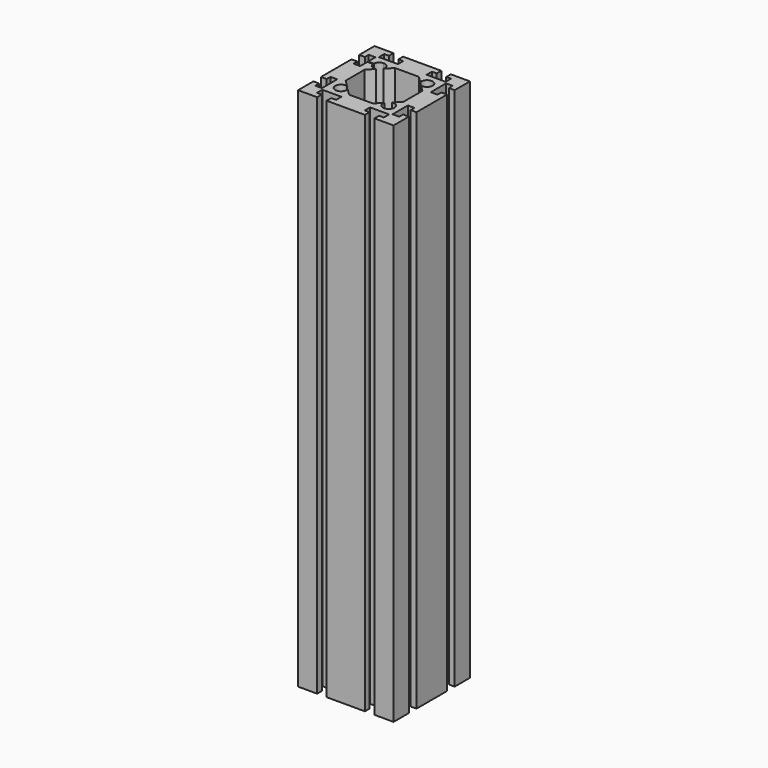
from build123d import *

# Parameters (mm, degrees)
F1_DEPTH = 550


with BuildPart() as f1:
    # F0 (on Top) → F1 (new body)
    with BuildSketch(Plane.XY):
        with BuildLine():
            Line((-30, 50), (-50, 50))
            Line((-50, 50), (-50, 30))
            Line((-50, 30), (-44, 30))
            Line((-44, 30), (-44, 35))
            Line((-44, 35), (-37, 35))
            Line((-37, 35), (-37, 25.5))
            Line((-37, 25.5), (-30.97913, 25.5))
            ThreePointArc((-30.97913, 25.5), (-29.242641, 29.242641), (-25.5, 30.97913))
            ThreePointArc((-25.5, 30.97913), (-20.408156, 28.861991), (-19.195037, 23.482633))
            Line((-19.195037, 23.482633), (-12.5, 30.17767))
            Line((-12.5, 30.17767), (12.5, 30.17767))
            Line((12.5, 30.17767), (19.195037, 23.482633))
            ThreePointArc((19.195037, 23.482633), (29.242641, 29.242641), (23.482633, 19.195037))
            Line((23.482633, 19.195037), (30.17767, 12.5))
            Line((30.17767, 12.5), (30.17767, -12.5))
            Line((30.17767, -12.5), (23.482633, -19.195037))
            ThreePointArc((23.482633, -19.195037), (29.242641, -29.242641), (19.195037, -23.482633))
            Line((19.195037, -23.482633), (12.5, -30.17767))
            Line((12.5, -30.17767), (-12.5, -30.17767))
            Line((-12.5, -30.17767), (-19.195037, -23.482633))
            ThreePointArc((-19.195037, -23.482633), (-29.242641, -29.242641), (-23.482633, -19.195037))
            Line((-23.482633, -19.195037), (-30.17767, -12.5))
            Line((-30.17767, -12.5), (-30.17767, 12.5))
            Line((-30.17767, 12.5), (-23.482633, 19.195037))
            ThreePointArc((-23.482633, 19.195037), (-28.465904, 20.102295), (-30.97913, 24.5))
            Line((-30.97913, 24.5), (-37, 24.5))
            Line((-37, 24.5), (-37, 15))
            Line((-37, 15), (-44, 15))
            Line((-44, 15), (-44, 20))
            Line((-44, 20), (-50, 20))
            Line((-50, 20), (-50, -20))
            Line((-50, -20), (-44, -20))
            Line((-44, -20), (-44, -15))
            Line((-44, -15), (-37, -15))
            Line((-37, -15), (-37, -35))
            Line((-37, -35), (-44, -35))
            Line((-44, -35), (-44, -30))
            Line((-44, -30), (-50, -30))
            Line((-50, -30), (-50, -50))
            Line((-50, -50), (-30, -50))
            Line((-30, -50), (-30, -44))
            Line((-30, -44), (-35, -44))
            Line((-35, -44), (-35, -37))
            Line((-35, -37), (-15, -37))
            Line((-15, -37), (-15, -44))
            Line((-15, -44), (-20, -44))
            Line((-20, -44), (-20, -50))
            Line((-20, -50), (20, -50))
            Line((20, -50), (20, -44))
            Line((20, -44), (15, -44))
            Line((15, -44), (15, -37))
            Line((15, -37), (35, -37))
            Line((35, -37), (35, -44))
            Line((35, -44), (30, -44))
            Line((30, -44), (30, -50))
            Line((30, -50), (50, -50))
            Line((50, -50), (50, -30))
            Line((50, -30), (44, -30))
            Line((44, -30), (44, -35))
            Line((44, -35), (37, -35))
            Line((37, -35), (37, -15))
            Line((37, -15), (44, -15))
            Line((44, -15), (44, -20))
            Line((44, -20), (50, -20))
            Line((50, -20), (50, 20))
            Line((50, 20), (44, 20))
            Line((44, 20), (44, 15))
            Line((44, 15), (37, 15))
            Line((37, 15), (37, 35))
            Line((37, 35), (44, 35))
            Line((44, 35), (44, 30))
            Line((44, 30), (50, 30))
            Line((50, 30), (50, 50))
            Line((50, 50), (30, 50))
            Line((30, 50), (30, 44))
            Line((30, 44), (35, 44))
            Line((35, 44), (35, 37))
            Line((35, 37), (15, 37))
            Line((15, 37), (15, 44))
            Line((15, 44), (20, 44))
            Line((20, 44), (20, 50))
            Line((20, 50), (-20, 50))
            Line((-20, 50), (-20, 44))
            Line((-20, 44), (-15, 44))
            Line((-15, 44), (-15, 37))
            Line((-15, 37), (-25.5, 37))
            Line((-25.5, 37), (-35, 37))
            Line((-35, 37), (-35, 44))
            Line((-35, 44), (-30, 44))
            Line((-30, 44), (-30, 50))
        make_face()
    extrude(amount=F1_DEPTH)


solid = f1.part
